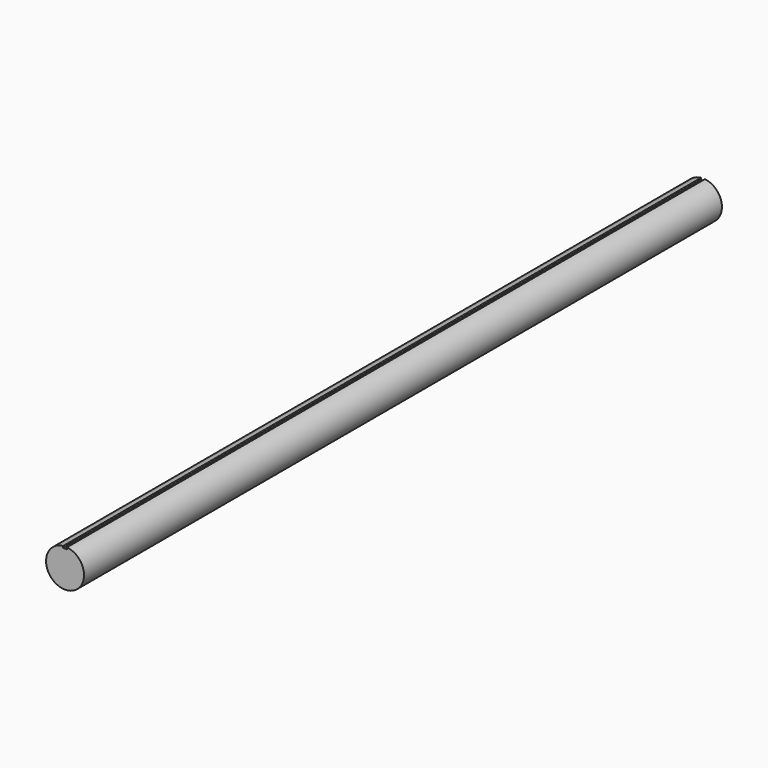
from build123d import *

# Parameters (mm, degrees)
F1_DEPTH = 533.4


with BuildPart() as f1:
    # F0 (on Front) → F1 (new body, symmetric)
    with BuildSketch(Plane.XZ):
        with BuildLine():
            Line((-2.54, 22.86), (-2.54, 25.272681))
            ThreePointArc((-2.54, 25.272681), (0, -25.4), (2.54, 25.272681))
            Line((2.54, 25.272681), (2.54, 22.86))
            Line((2.54, 22.86), (-2.54, 22.86))
        make_face()
    extrude(amount=F1_DEPTH, both=True)


solid = f1.part
